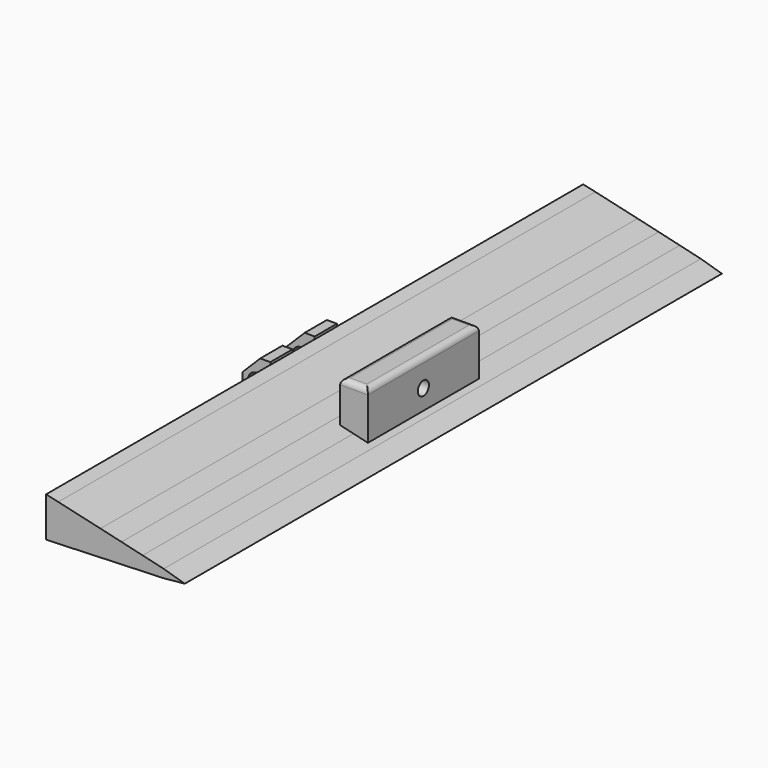
from build123d import *

# Parameters (mm, degrees)
SKETCH023_R  = 1.5
PAD009_DEPTH = 5
SKETCH022_R  = 1.5
PAD012_DEPTH = 5
SKETCH026_W  = 25
SKETCH026_H  = 10
SKETCH026_R  = 1.25
PAD015_DEPTH = 5
FILLET001_R  = 1


with BuildPart() as body015:
    # Sketch023 → Pad009 (new body)
    with BuildSketch(Plane(origin=(0.02, 0, 0), x_dir=(1, 0, 0), z_dir=(0, -1, 0))):
        Polygon((0.683099, -4), (2.5, -4), (2.5, 4), (0.683099, 4), (-2.5, 0.816901), (-2.5, -0.816901), align=None)
        Circle(SKETCH023_R, mode=Mode.SUBTRACT)
    extrude(amount=PAD009_DEPTH)


with BuildPart() as body015_1:
    # Body015 placement: moved
    add(body015.part.moved(Location((362.5, 807.5, 2.5))))


with BuildPart() as body014:
    # Sketch022 → Pad012 (new body)
    with BuildSketch(Plane(origin=(0.02, 0, 0), x_dir=(1, 0, 0), z_dir=(0, -1, 0))):
        Polygon((0.683099, -4), (2.5, -4), (2.5, 4), (0.683099, 4), (-2.5, 0.816901), (-2.5, -0.816901), align=None)
        Circle(SKETCH022_R, mode=Mode.SUBTRACT)
    extrude(amount=PAD012_DEPTH)


with BuildPart() as body014_1:
    # Body014 placement: moved
    add(body014.part.moved(Location((362.5, 817.5, 2.5))))


with BuildPart() as hinge_flap:
    # Sketch026 → Pad015 (new body)
    with BuildSketch(Plane.YZ):
        Rectangle(SKETCH026_W, SKETCH026_H)
        Circle(SKETCH026_R, mode=Mode.SUBTRACT)
    extrude(amount=PAD015_DEPTH)

    # Fillet001
    fillet001_edges = [hinge_flap.edges().sort_by_distance(p)[0] for p in [
        (2.5, 12.5, 5),
        (2.5, -12.5, 5),
        (0, 0, 5),
        (5, 0, 5),
    ]]
    fillet(fillet001_edges, radius=FILLET001_R)


with BuildPart() as hinge_flap_1:
    # Body018 placement: moved
    add(hinge_flap.part.moved(Location((380, 812, 5))))


with BuildPart() as flap:
    # Sketch013 → AdditiveLoft002 section 0
    with BuildSketch(Plane(origin=(10, 873, 0), x_dir=(1, 0, 0), z_dir=(0, -1, 0))):
        Polygon((357.2, 5.557082), (364.8, 3.808816), (368.6, 2.920984), (372.4, 2.02673), (376.2, 1.12822), (380, 0), (376.2, -0.367308), (372.4, -0.506882), (368.6, -0.646418), (364.8, -0.785954), (357.2, -1.065064), (355.003606, -1.145727), (355.003606, 6.050359), align=None)
    # Sketch015 → AdditiveLoft002 section 1
    with BuildSketch(Plane(origin=(10, 752, 0), x_dir=(1, 0, 0), z_dir=(0, -1, 0))):
        Polygon((357.2, 5.557082), (364.8, 3.808816), (368.6, 2.920984), (372.4, 2.02673), (376.2, 1.12822), (380, 0), (376.2, -0.367308), (372.4, -0.506882), (368.6, -0.646418), (364.8, -0.785954), (357.2, -1.065064), (355.003606, -1.145727), (355.003606, 6.050359), align=None)
    loft()

    # Boolean003: union Body015, Body014
    add(body015_1.part)
    add(body014_1.part)

    # Boolean005: union hinge_flap
    add(hinge_flap_1.part)


solid = flap.part
